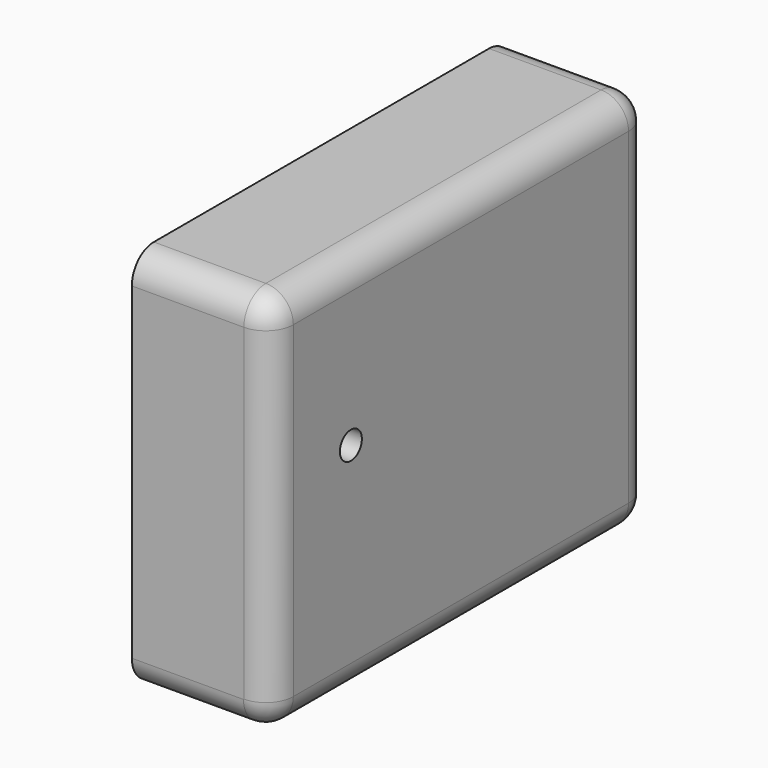
from build123d import *

# Parameters (mm, degrees)
F0_W     = 86.277299
F0_H     = 69.66754
F1_DEPTH = 25.4
F2_R     = 5.08
F3_R     = 5
F4_R     = 5
F5_R     = 5
F7_D     = 5


with BuildPart() as f1:
    # F0 (on Right) → F1 (new body)
    with BuildSketch(Plane.YZ):
        with Locations((10.387514, -5.193766)):
            Rectangle(F0_W, F0_H)
    extrude(amount=F1_DEPTH)

    # F2
    f2_edges = [f1.edges().sort_by_distance(p)[0] for p in [
        (25.4, 10.387514, -40.027536),
    ]]
    fillet(f2_edges, radius=F2_R)

    # F3
    f3_edges = [f1.edges().sort_by_distance(p)[0] for p in [
        (25.4, 53.526163, -2.653766),
    ]]
    fillet(f3_edges, radius=F3_R)

    # F4
    f4_edges = [f1.edges().sort_by_distance(p)[0] for p in [
        (25.4, 7.887514, 29.640004),
    ]]
    fillet(f4_edges, radius=F4_R)

    # F5
    f5_edges = [f1.edges().sort_by_distance(p)[0] for p in [
        (25.4, -32.751136, -5.153766),
    ]]
    fillet(f5_edges, radius=F5_R)

    # F7 (through all)
    with Locations(Plane.YZ.offset(25.4)):
        with Locations((-14.6505, 0)):
            Hole(F7_D / 2)


solid = f1.part
